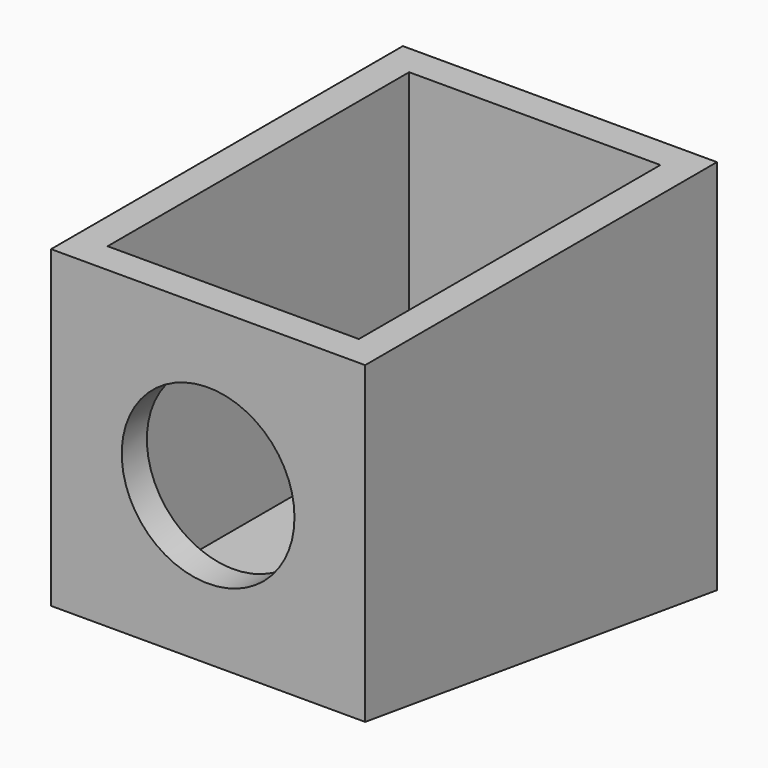
from build123d import *

# Parameters (mm, degrees)
F2_W     = 50
F2_H     = 60
F0_W     = 50
F0_H     = 50
F4_W     = 40
F4_H     = 60
F5_DEPTH = 50
F6_R     = 13.75
F7_DEPTH = 25.4


with BuildPart() as f3:
    # F2 (on offset) → F3 section 0
    with BuildSketch(Plane.XZ.offset(-70)):
        with Locations((0, -5)):
            Rectangle(F2_W, F2_H)
    # F0 (on Front) → F3 section 1
    with BuildSketch(Plane.XZ):
        Rectangle(F0_W, F0_H)
    loft()

    # F4 (on face) → F5 (cut)
    with BuildSketch(Plane.XY.offset(25)):
        with Locations((0, 35)):
            Rectangle(F4_W, F4_H)
    extrude(amount=-F5_DEPTH, mode=Mode.SUBTRACT)

    # F6 (on face) → F7 (cut)
    with BuildSketch(Plane.XZ):
        Circle(F6_R)
    extrude(amount=-F7_DEPTH, mode=Mode.SUBTRACT)


solid = f3.part
